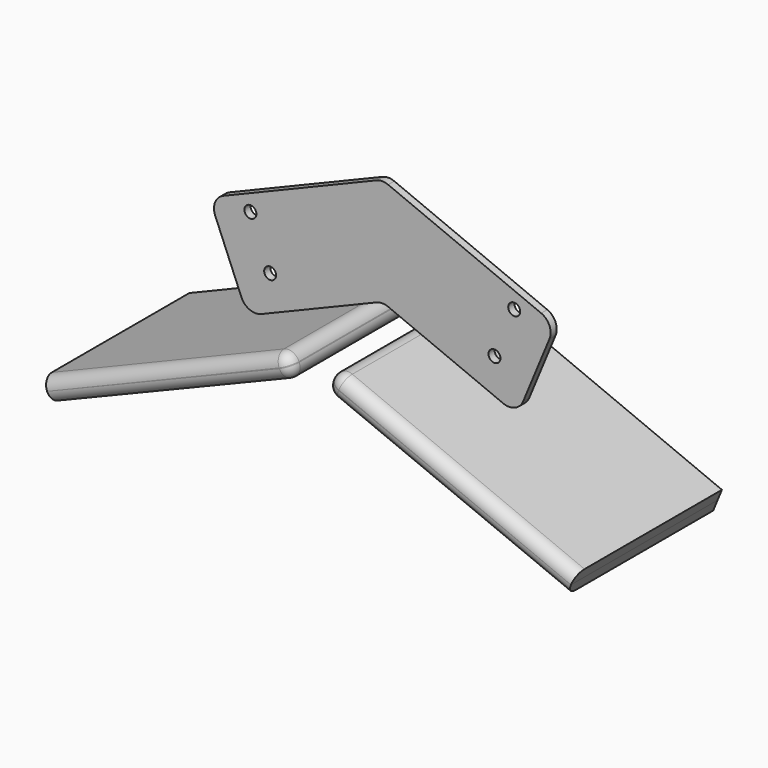
from build123d import *

# Parameters (mm, degrees)
F0_R     = 4.9657
F1_DEPTH = 3.175
F2_R     = 12.7
F3_DEPTH = 76.2
F4_R     = 9.525
F4_2_R   = 9.525


with BuildPart() as f1:
    # F0 (on Front) → F1 (new body, symmetric)
    with BuildSketch(Plane.XZ):
        Polygon((-112.2754325273, -46.5060068741), (0, 0), (0, 89.3514761341), (-143.8659498691, 29.7602485347), align=None)
        with Locations((-93.2699265011, -9.4226090129)):
            Circle(F0_R, mode=Mode.SUBTRACT)
        with Locations((-109.6726951208, 30.1771774494)):
            Circle(F0_R, mode=Mode.SUBTRACT)
        Polygon((0, 89.3514761341), (0, 0), (112.2754325273, -46.5060068741), (143.8659498691, 29.7602485347), align=None)
        with Locations((93.2699265011, -9.4226090129)):
            Circle(F0_R, mode=Mode.SUBTRACT)
        with Locations((109.6726951208, 30.1771774494)):
            Circle(F0_R, mode=Mode.SUBTRACT)
    extrude(amount=F1_DEPTH, both=True)

    # F2
    f2_edges = [f1.edges().sort_by_distance(p)[0] for p in [
        (-143.86595, 0, 29.760249),
        (0, 0, 89.351476),
        (0, 0, 0),
        (112.275433, 0, -46.506007),
        (143.86595, 0, 29.760249),
        (-112.275433, 0, -46.506007),
    ]]
    fillet(f2_edges, radius=F2_R)


with BuildPart() as f1b:
    # F0 (on Front) → F1, piece 2 (new body, symmetric)
    with BuildSketch(Plane.XZ):
        Polygon((-12.1426400097, -31.1194647295), (-19.6315676376, -12.9711623258), (-221.4519007896, -96.56788148), (-217.8068410963, -105.3678340271), (-214.1852704835, -114.177479383), align=None)
    extrude(amount=F1_DEPTH, both=True)

    # F3 (add, symmetric): a face of the model
    f3_faces = [f1b.faces().sort_by_distance(p)[0] for p in [
        (-116.342910997, -3.175, -63.4985719637),
    ]]
    extrude(f3_faces, amount=F3_DEPTH, both=True)

    # F4#2
    f4_2_edges = [f1b.edges().sort_by_distance(p)[0] for p in [
        (-12.14264, -3.175, -31.119465),
        (-120.541734, -79.375, -54.769522),
        (-113.163955, -79.375, -72.648472),
        (-19.631568, -3.175, -12.971162),
        (-15.887104, -79.375, -22.045314),
    ]]
    fillet(f4_2_edges, radius=F4_2_R)


with BuildPart() as f1c:
    # F0 (on Front) → F1, piece 3 (new body, symmetric)
    with BuildSketch(Plane.XZ):
        Polygon((221.4519007896, -96.56788148), (19.6315676376, -12.9711623258), (12.1426400097, -31.1194647295), (214.1852704835, -114.177479383), (217.8068410963, -105.3678340271), align=None)
    extrude(amount=F1_DEPTH, both=True)

    # F3#2 (add, symmetric): a face of the model
    f3_2_faces = [f1c.faces().sort_by_distance(p)[0] for p in [
        (116.342910997, -3.175, -63.4985719637),
    ]]
    extrude(f3_2_faces, amount=F3_DEPTH, both=True)

    # F4
    f4_edges = [f1c.edges().sort_by_distance(p)[0] for p in [
        (19.631568, -3.175, -12.971162),
        (12.14264, -3.175, -31.119465),
        (120.541734, -79.375, -54.769522),
        (113.163955, -79.375, -72.648472),
        (15.887104, -79.375, -22.045314),
    ]]
    fillet(f4_edges, radius=F4_R)


solid = Compound([f1.part, f1b.part, f1c.part])
